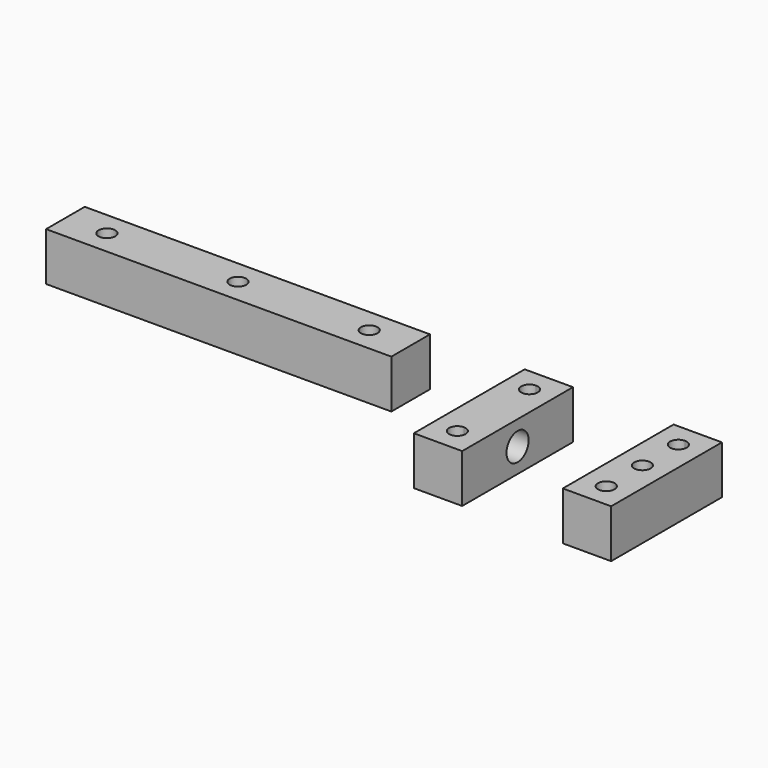
from build123d import *

# Parameters (mm, degrees)
F0_W      = 63.4998399764
F0_H      = 8.8863964193
F1_DEPTH  = 8.89
F4_W      = 8.8887698962
F4_H      = 25.4709599787
F5_DEPTH  = 8.89
F7_DEPTH  = 12.7
F9_DEPTH  = 25.4
F10_W     = 8.8887698962
F10_H     = 25.4709599787
F11_DEPTH = 8.89
F2_R      = 1.5192022955
F13_DEPTH = 25.4
F14_DEPTH = 25.4
F12_R     = 1.5198546865
F15_DEPTH = 25.4


with BuildPart() as f1:
    # F0 (on Top) → F1 (new body)
    with BuildSketch(Plane.XY):
        with Locations((-42.182370089, -4.4431982096)):
            Rectangle(F0_W, F0_H)
    extrude(amount=F1_DEPTH)

    # F2 (on face) → F13 (cut)
    with BuildSketch(Plane.XY.offset(8.89)):
        with BuildLine():
            ThreePointArc((-64.7777148179, -4.4431982096), (-66.3047730923, -2.9161399353), (-67.8318313666, -4.4431982096))
            ThreePointArc((-67.8318313666, -4.4431982096), (-66.3047730923, -5.970256484), (-64.7777148179, -4.4431982096))
        make_face()
        with Locations((-18.0546771735, -4.4431982096)):
            Circle(F2_R)
    extrude(amount=-F13_DEPTH, mode=Mode.SUBTRACT)

    # F3 (on face) → F14 (cut)
    with BuildSketch(Plane.XY.offset(8.89)):
        with BuildLine():
            ThreePointArc((-40.6698822216, -4.4431982096), (-42.1947985888, -2.9182818425), (-43.7197149559, -4.4431982096))
            ThreePointArc((-43.7197149559, -4.4431982096), (-42.1947985888, -5.9681145768), (-40.6698822216, -4.4431982096))
        make_face()
    extrude(amount=-F14_DEPTH, mode=Mode.SUBTRACT)


with BuildPart() as f5:
    # F4 (on Top) → F5 (new body)
    with BuildSketch(Plane.XY):
        with Locations((11.4180715748, -12.7354799894)):
            Rectangle(F4_W, F4_H)
    extrude(amount=F5_DEPTH)

    # F6 (on face) → F7 (cut)
    with BuildSketch(Plane.XY.offset(8.89)):
        with BuildLine():
            ThreePointArc((11.4180715748, -19.5098076149), (9.8983402367, -21.029538953), (11.4180715748, -22.5492702911))
            Line((11.4180715748, -22.5492702911), (11.4180715748, -21.029538953))
            Line((11.4180715748, -21.029538953), (11.4180715748, -19.5098076149))
        make_face()
        with BuildLine():
            Line((11.4180715748, -21.029538953), (11.4180715748, -22.5492702911))
            ThreePointArc((11.4180715748, -22.5492702911), (12.4926839095, -22.1041512878), (12.9378029129, -21.029538953))
            ThreePointArc((12.9378029129, -21.029538953), (12.4926839095, -19.9549266183), (11.4180715748, -19.5098076149))
            Line((11.4180715748, -19.5098076149), (11.4180715748, -21.029538953))
        make_face()
        with BuildLine():
            Line((11.4180715748, -4.4464189559), (11.4180715748, -2.9232586077))
            ThreePointArc((11.4180715748, -2.9232586077), (9.8949112265, -4.4464189559), (11.4180715748, -5.9695793042))
            Line((11.4180715748, -5.9695793042), (11.4180715748, -4.4464189559))
        make_face()
        with BuildLine():
            ThreePointArc((12.941231923, -4.4464189559), (12.4951085859, -3.3693819448), (11.4180715748, -2.9232586077))
            Line((11.4180715748, -2.9232586077), (11.4180715748, -4.4464189559))
            Line((11.4180715748, -4.4464189559), (11.4180715748, -5.9695793042))
            ThreePointArc((11.4180715748, -5.9695793042), (12.4951085859, -5.523455967), (12.941231923, -4.4464189559))
        make_face()
    extrude(amount=-F7_DEPTH, mode=Mode.SUBTRACT)

    # F8 (on face) → F9 (cut)
    with BuildSketch(Plane.YZ.offset(15.8624565229)):
        with BuildLine():
            Line((-10.1939541947, 4.445), (-12.7354799894, 4.445))
            Line((-12.7354799894, 4.445), (-15.2770057841, 4.445))
            ThreePointArc((-15.2770057841, 4.445), (-12.7354799894, 1.9034742053), (-10.1939541947, 4.445))
        make_face()
        with BuildLine():
            Line((-15.2770057841, 4.445), (-12.7354799894, 4.445))
            Line((-12.7354799894, 4.445), (-10.1939541947, 4.445))
            ThreePointArc((-10.1939541947, 4.445), (-12.7354799894, 6.9865257947), (-15.2770057841, 4.445))
        make_face()
    extrude(amount=-F9_DEPTH, mode=Mode.SUBTRACT)


with BuildPart() as f11:
    # F10 (on Top) → F11 (new body)
    with BuildSketch(Plane.XY):
        with Locations((38.8435609639, -12.7757902956)):
            Rectangle(F10_W, F10_H)
    extrude(amount=F11_DEPTH)

    # F12 (on face) → F15 (cut)
    with BuildSketch(Plane.XY.offset(8.89)):
        with BuildLine():
            ThreePointArc((40.3729472389, -21.0685674101), (37.7621215578, -19.987128004), (38.8435609639, -22.5979536851))
            ThreePointArc((38.8435609639, -22.5979536851), (39.92500037, -22.1500068162), (40.3729472389, -21.0685674101))
        make_face()
        with Locations((38.8435609639, -12.7757902956)):
            Circle(F12_R)
        with BuildLine():
            ThreePointArc((40.3695379503, -4.4953571633), (39.9225896389, -3.4163284882), (38.8435609639, -2.9693801768))
            ThreePointArc((38.8435609639, -2.9693801768), (37.7645322888, -5.5743858383), (40.3695379503, -4.4953571633))
        make_face()
    extrude(amount=-F15_DEPTH, mode=Mode.SUBTRACT)


solid = Compound([f1.part, f5.part, f11.part])
